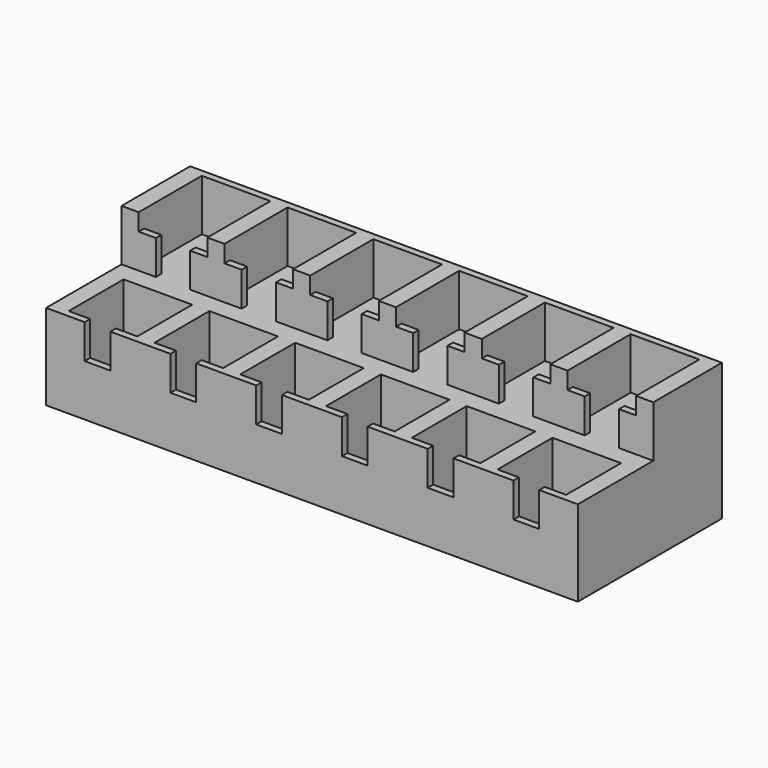
from build123d import *

# Parameters (mm, degrees)
F1_DEPTH  = 98.425
F2_W      = 25.4
F2_H      = 25.4
F2_H_2    = 29.21
F3_DEPTH  = 50.801
F4_W      = 25.4
F4_H      = 29.21
F5_DEPTH  = 3.175
F6_W      = 6.35
F6_H      = 2.54
F7_DEPTH  = 12.7
F8_W      = 9.525
F8_H      = 2.54
F9_DEPTH  = 12.7
F10_W     = 190.5
F10_H     = 27.94
F11_DEPTH = 3.175


with BuildPart() as f1:
    # F0 (on Right) → F1 (new body, symmetric)
    with BuildSketch(Plane.YZ):
        Polygon((-66.675, 0), (0, 0), (0, 50.8), (-31.75, 50.8), (-31.75, 31.75), (-66.675, 31.75), align=None)
    extrude(amount=F1_DEPTH, both=True)

    # F2 (on face) → F3 (cut, through all)
    with BuildSketch(Plane(origin=(0, 0, 0), x_dir=(1, 0, 0), z_dir=(0, 0, -1))):
        with Locations((-15.875, 51.435)):
            Rectangle(F2_W, F2_H)
        with Locations((-15.875, 17.145)):
            Rectangle(F2_W, F2_H_2)
        with Locations((-47.625, 17.145)):
            Rectangle(F2_W, F2_H_2)
        with Locations((-47.625, 51.435)):
            Rectangle(F2_W, F2_H)
        with Locations((-79.375, 17.145)):
            Rectangle(F2_W, F2_H_2)
        with Locations((-79.375, 51.435)):
            Rectangle(F2_W, F2_H)
        with Locations((47.625, 17.145)):
            Rectangle(F2_W, F2_H_2)
        with Locations((15.875, 51.435)):
            Rectangle(F2_W, F2_H)
        with Locations((79.375, 17.145)):
            Rectangle(F2_W, F2_H_2)
        with Locations((47.625, 51.435)):
            Rectangle(F2_W, F2_H)
        with Locations((79.375, 51.435)):
            Rectangle(F2_W, F2_H)
        with Locations((15.875, 17.145)):
            Rectangle(F2_W, F2_H_2)
    extrude(amount=-F3_DEPTH, mode=Mode.SUBTRACT)

    # F4 (on face) → F5 (join)
    with BuildSketch(Plane.XY.offset(31.75)):
        with Locations((15.875, -17.145)):
            Rectangle(F4_W, F4_H)
        with Locations((47.625, -17.145)):
            Rectangle(F4_W, F4_H)
        with Locations((79.375, -17.145)):
            Rectangle(F4_W, F4_H)
        with Locations((-15.875, -17.145)):
            Rectangle(F4_W, F4_H)
        with Locations((-79.375, -17.145)):
            Rectangle(F4_W, F4_H)
        with Locations((-47.625, -17.145)):
            Rectangle(F4_W, F4_H)
    extrude(amount=-F5_DEPTH)

    # F6 (on face) → F7 (join)
    with BuildSketch(Plane.XY.offset(31.75)):
        with Locations((-88.9, -30.48)):
            Rectangle(F6_W, F6_H)
        with Locations((-69.85, -30.48)):
            Rectangle(F6_W, F6_H)
        with Locations((-38.1, -30.48)):
            Rectangle(F6_W, F6_H)
        with Locations((-57.15, -30.48)):
            Rectangle(F6_W, F6_H)
        with Locations((-6.35, -30.48)):
            Rectangle(F6_W, F6_H)
        with Locations((-25.4, -30.48)):
            Rectangle(F6_W, F6_H)
        with Locations((25.4, -30.48)):
            Rectangle(F6_W, F6_H)
        with Locations((6.35, -30.48)):
            Rectangle(F6_W, F6_H)
        with Locations((57.15, -30.48)):
            Rectangle(F6_W, F6_H)
        with Locations((38.1, -30.48)):
            Rectangle(F6_W, F6_H)
        with Locations((88.9, -30.48)):
            Rectangle(F6_W, F6_H)
        with Locations((69.85, -30.48)):
            Rectangle(F6_W, F6_H)
    extrude(amount=F7_DEPTH)

    # F8 (on face) → F9 (cut)
    with BuildSketch(Plane.XY.offset(31.75)):
        with Locations((-79.375, -65.405)):
            Rectangle(F8_W, F8_H)
        with Locations((-47.625, -65.405)):
            Rectangle(F8_W, F8_H)
        with Locations((-15.875, -65.405)):
            Rectangle(F8_W, F8_H)
        with Locations((15.875, -65.405)):
            Rectangle(F8_W, F8_H)
        with Locations((47.625, -65.405)):
            Rectangle(F8_W, F8_H)
        with Locations((79.375, -65.405)):
            Rectangle(F8_W, F8_H)
    extrude(amount=-F9_DEPTH, mode=Mode.SUBTRACT)

    # F10 (on face) → F11 (join)
    with BuildSketch(Plane(origin=(0, 0, 0), x_dir=(1, 0, 0), z_dir=(0, 0, -1))):
        with Locations((-3.175, 52.705)):
            Rectangle(F10_W, F10_H)
    extrude(amount=-F11_DEPTH)


solid = f1.part
